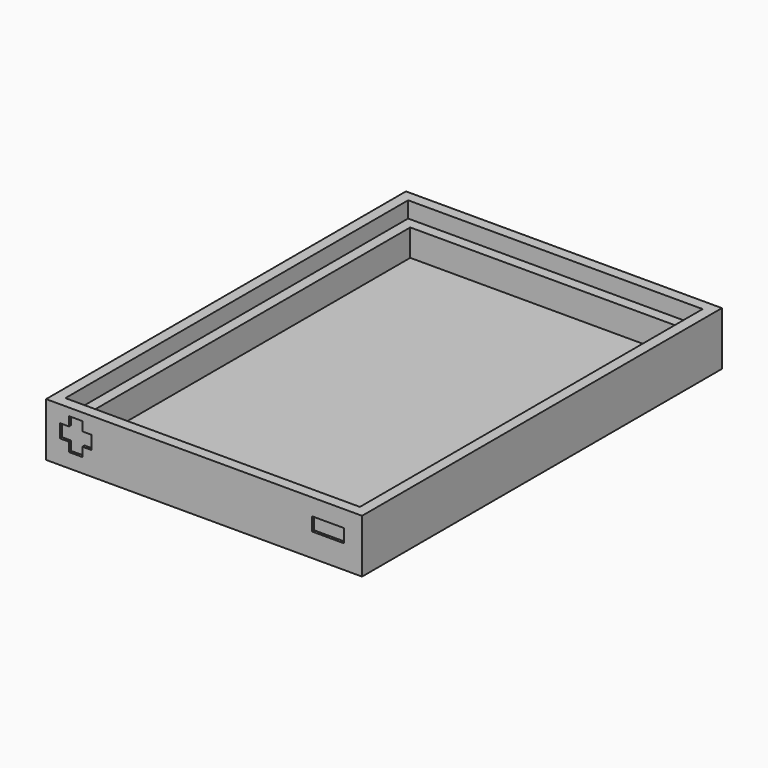
from build123d import *

# Parameters (mm, degrees)
F0_W     = 59
F0_H     = 84
F1_DEPTH = 10
F2_W     = 55
F2_H     = 80
F3_DEPTH = 3
F4_W     = 51
F4_H     = 76
F5_DEPTH = 5
F6_W     = 5.918054
F6_H     = 2.513148
F7_DEPTH = 0.5


with BuildPart() as f1:
    # F0 (on Top) → F1 (new body)
    with BuildSketch(Plane.XY):
        with Locations((0.888158, 11.53495)):
            Rectangle(F0_W, F0_H)
    extrude(amount=F1_DEPTH)

    # F2 (on face) → F3 (cut)
    with BuildSketch(Plane.XY.offset(10)):
        with Locations((0.888158, 11.53495)):
            Rectangle(F2_W, F2_H)
    extrude(amount=-F3_DEPTH, mode=Mode.SUBTRACT)

    # F4 (on face) → F5 (cut)
    with BuildSketch(Plane.XY.offset(7)):
        with Locations((0.888158, 11.53495)):
            Rectangle(F4_W, F4_H)
    extrude(amount=-F5_DEPTH, mode=Mode.SUBTRACT)

    # F6 (on face) → F7 (cut)
    with BuildSketch(Plane.XZ.offset(30.46505)):
        Polygon((-20.119896, 4.378146), (-20.119896, 6.891294), (-21.822348, 6.891294), (-21.822348, 8.593746), (-24.335496, 8.593746), (-24.335496, 6.891294), (-26.037948, 6.891294), (-26.037948, 4.378146), (-24.335496, 4.378146), (-24.335496, 2.675694), (-21.822348, 2.675694), (-21.822348, 4.378146), align=None)
        with Locations((24.022301, 5.63472)):
            Rectangle(F6_W, F6_H)
    extrude(amount=-F7_DEPTH, mode=Mode.SUBTRACT)


solid = f1.part
